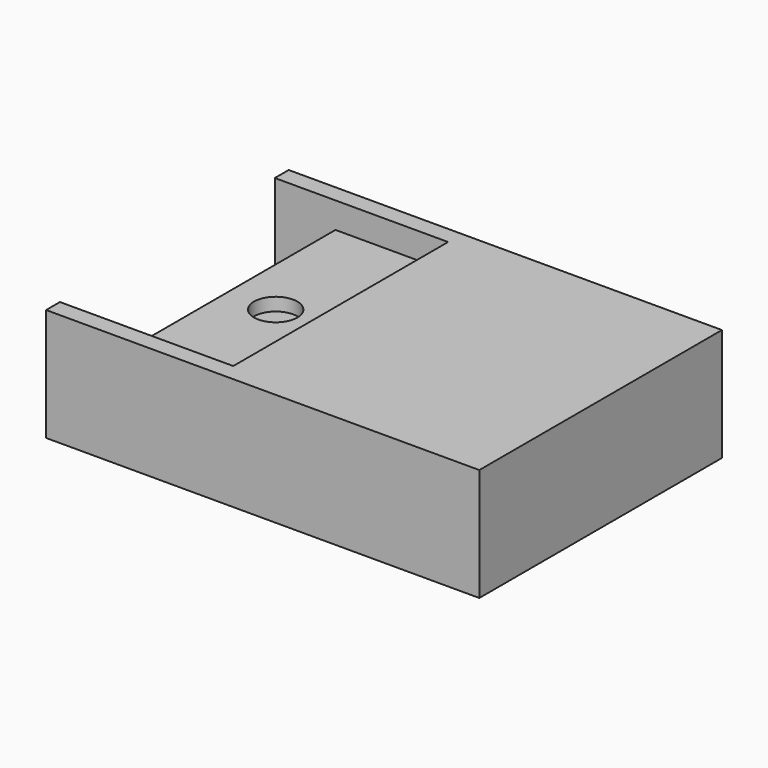
from build123d import *

# Parameters (mm, degrees)
F0_W     = 50
F0_H     = 35
F1_DEPTH = 13
F2_W     = 31
F2_H     = 20
F3_DEPTH = 20
F4_W     = 31
F4_H     = 7
F5_DEPTH = 27
F6_W     = 31
F6_H     = 2
F7_DEPTH = 13
F8_R     = 2.5
F9_DEPTH = 1.5


with BuildPart() as f1:
    # F0 (on Top) → F1 (new body)
    with BuildSketch(Plane.XY):
        Rectangle(F0_W, F0_H)
    extrude(amount=F1_DEPTH)

    # F2 (on face) → F3 (cut)
    with BuildSketch(Plane(origin=(-25, 0, 0), x_dir=(0, -1, 0), z_dir=(-1, 0, 0))):
        with Locations((0, 11)):
            Rectangle(F2_W, F2_H)
    extrude(amount=-F3_DEPTH, mode=Mode.SUBTRACT)

    # F4 (on face) → F5 (cut)
    with BuildSketch(Plane(origin=(-5, 0, 0), x_dir=(0, -1, 0), z_dir=(-1, 0, 0))):
        with Locations((0, 4.5)):
            Rectangle(F4_W, F4_H)
    extrude(amount=-F5_DEPTH, mode=Mode.SUBTRACT)

    # F6 (on face) → F7 (join)
    with BuildSketch(Plane(origin=(-5, 0, 0), x_dir=(0, -1, 0), z_dir=(-1, 0, 0))):
        with Locations((0, 9)):
            Rectangle(F6_W, F6_H)
    extrude(amount=F7_DEPTH)

    # F8 (on face) → F9 (cut)
    with BuildSketch(Plane.XY.offset(10)):
        with Locations((-12.5, 0)):
            Circle(F8_R)
    extrude(amount=-F9_DEPTH, mode=Mode.SUBTRACT)


solid = f1.part
